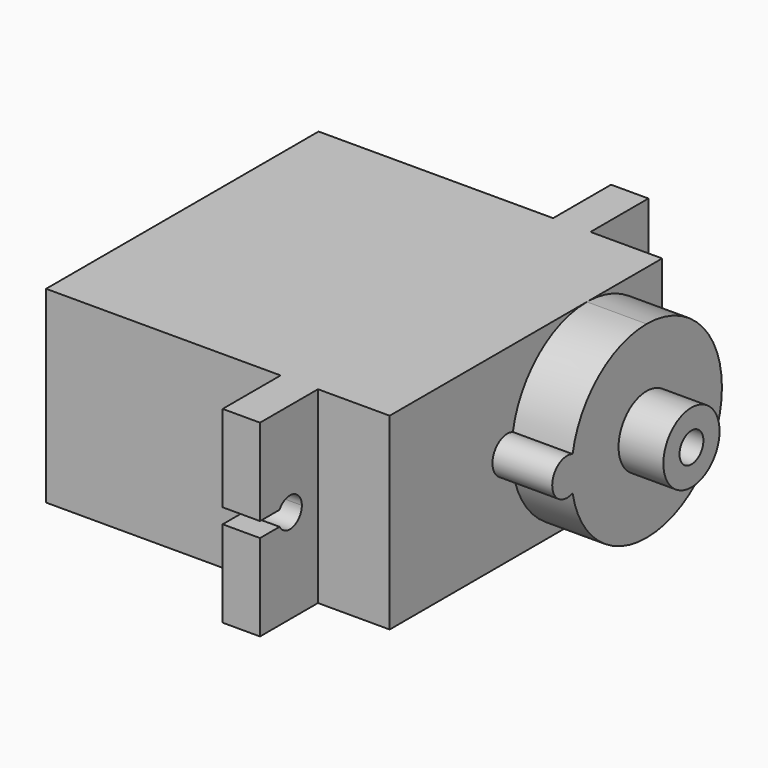
from build123d import *

# Parameters (mm, degrees)
F1_DEPTH = 6.3
F3_DEPTH = 4
F4_R     = 2.35
F4_R_2   = 1
F5_DEPTH = 3
F7_DEPTH = 2.5


with BuildPart() as f1:
    # F0 (on Top) → F1 (new body, symmetric)
    with BuildSketch(Plane.XY):
        Polygon((7.7, 11.4), (-8, 11.4), (-8, -11.4), (7.7, -11.4), (7.7, -16.25), (10.2, -16.25), (10.2, -11.4), (15, -11.4), (15, 11.4), (10.2, 11.4), (10.2, 16.25), (7.7, 16.25), align=None)
    extrude(amount=F1_DEPTH, both=True)

    # F2 (on face) → F3 (join)
    with BuildSketch(Plane.YZ.offset(15)):
        with BuildLine():
            ThreePointArc((5.1, 6.3), (1.0729415714, 4.844873622), (-1.0938378269, 1.1516826707))
            ThreePointArc((-1.0938378269, 1.1516826707), (-1.2, 0), (-1.0938378269, -1.1516826707))
            ThreePointArc((-1.0938378269, -1.1516826707), (1.072941559, -4.8448736116), (5.0999999676, -6.3))
            ThreePointArc((5.0999999676, -6.3), (9.55477271, -4.4547727329), (11.4, 0))
            ThreePointArc((11.4, 0), (9.5547727215, 4.4547727215), (5.1, 6.3))
        make_face()
        with BuildLine():
            ThreePointArc((-1.0938378269, -1.1516826707), (-1.2, 0), (-1.0938378269, 1.1516826707))
            ThreePointArc((-1.0938378269, 1.1516826707), (-2.8, 0), (-1.0938378269, -1.1516826707))
        make_face()
    extrude(amount=F3_DEPTH)

    # F4 (on face) → F5 (join)
    with BuildSketch(Plane.YZ.offset(19)):
        with Locations((5.1, 0)):
            Circle(F4_R)
        with Locations((5.1, 0)):
            Circle(F4_R_2, mode=Mode.SUBTRACT)
        with Locations((5.1, 0)):
            Circle(F4_R)
        with Locations((5.1, 0)):
            Circle(F4_R_2, mode=Mode.SUBTRACT)
    extrude(amount=F5_DEPTH)

    # F6 (on face) → F7 (cut, through all)
    with BuildSketch(Plane.YZ.offset(10.2)):
        with BuildLine():
            ThreePointArc((14.6160254038, -0.5), (14.7159258263, -0.2588190451), (14.75, 0))
            ThreePointArc((14.75, 0), (14.7159258263, 0.2588190451), (14.6160254038, 0.5))
            ThreePointArc((14.6160254038, 0.5), (12.75, 0), (14.6160254038, -0.5))
        make_face()
        with BuildLine():
            ThreePointArc((14.6160254038, 0.5), (14.7159258263, 0.2588190451), (14.75, 0))
            ThreePointArc((14.75, 0), (14.7159258263, -0.2588190451), (14.6160254038, -0.5))
            Line((14.6160254038, -0.5), (16.25, -0.5))
            Line((16.25, -0.5), (16.25, 0.5))
            Line((16.25, 0.5), (14.6160254038, 0.5))
        make_face()
        with BuildLine():
            ThreePointArc((-14.6160254038, -0.5), (-13.4911809549, -0.9659258263), (-12.75, 0))
            ThreePointArc((-12.75, 0), (-13.4911809549, 0.9659258263), (-14.6160254038, 0.5))
            ThreePointArc((-14.6160254038, 0.5), (-14.75, 0), (-14.6160254038, -0.5))
        make_face()
        with BuildLine():
            ThreePointArc((-14.6160254038, -0.5), (-14.75, 0), (-14.6160254038, 0.5))
            Line((-14.6160254038, 0.5), (-16.25, 0.5))
            Line((-16.25, 0.5), (-16.25, -0.5))
            Line((-16.25, -0.5), (-14.6160254038, -0.5))
        make_face()
    extrude(amount=-F7_DEPTH, mode=Mode.SUBTRACT)


solid = f1.part
